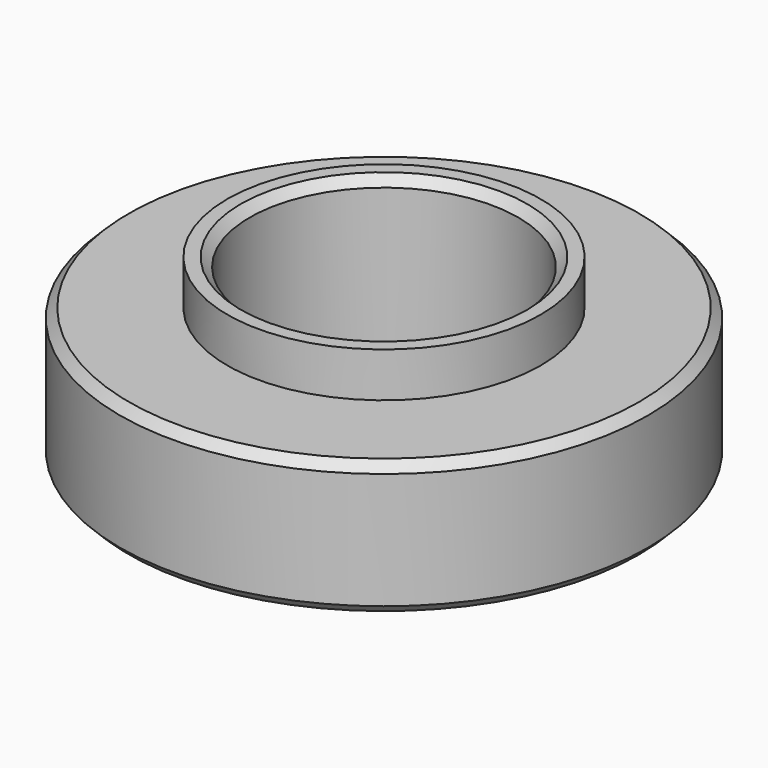
from build123d import *

# Parameters (mm, degrees)
F0_R     = 5.9
F1_DEPTH = 3
F2_R     = 3.5
F3_DEPTH = 1
F4_R     = 3
F5_DEPTH = 4.001
F6_SIZE  = 0.2


with BuildPart() as f1:
    # F0 (on Top) → F1 (new body)
    with BuildSketch(Plane.XY):
        Circle(F0_R)
    extrude(amount=F1_DEPTH)

    # F2 (on face) → F3 (join)
    with BuildSketch(Plane.XY.offset(3)):
        Circle(F2_R)
    extrude(amount=F3_DEPTH)

    # F4 (on face) → F5 (cut, through all)
    with BuildSketch(Plane(origin=(0, 0, 0), x_dir=(1, 0, 0), z_dir=(0, 0, -1))):
        Circle(F4_R)
    extrude(amount=-F5_DEPTH, mode=Mode.SUBTRACT)

    # F6
    f6_edges = [f1.edges().sort_by_distance(p)[0] for p in [
        (-5.9, 0, 3),
        (-5.9, 0, 0),
        (-3, 0, 0),
        (-3, 0, 4),
    ]]
    chamfer(f6_edges, length=F6_SIZE)


solid = f1.part
